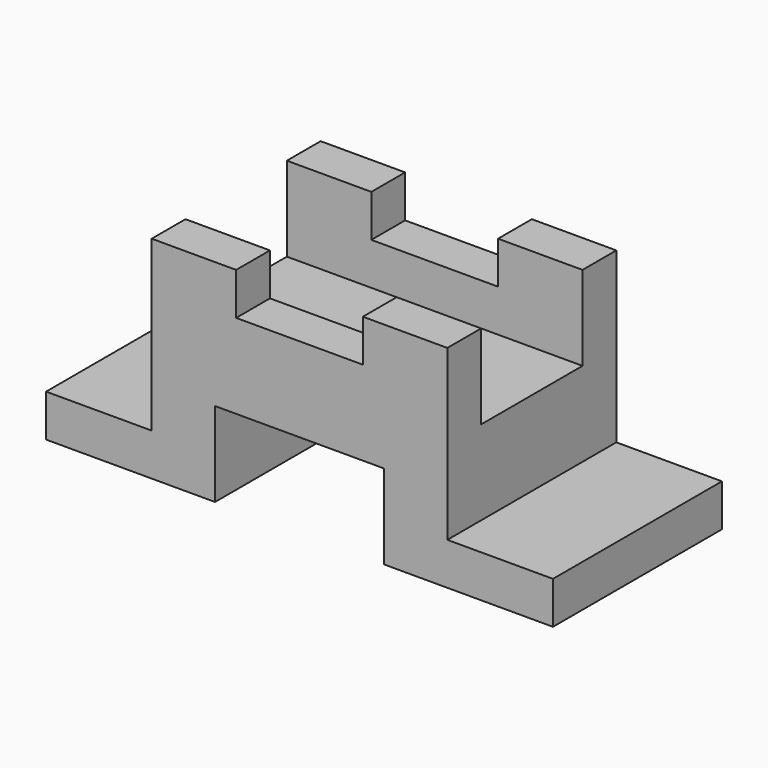
from build123d import *

# Parameters (mm, degrees)
F1_DEPTH = 25
F2_W     = 30
F2_H     = 20
F3_DEPTH = 35.001


with BuildPart() as f1:
    # F0 (on Front) → F1 (new body, symmetric)
    with BuildSketch(Plane.XZ):
        Polygon((0, 40), (0, 20), (20, 20), (20, 0), (60, 0), (60, 10), (35, 10), (35, 50), (15, 50), (15, 40), align=None)
    extrude(amount=F1_DEPTH, both=True)

    # F2 (on face) → F3 (cut, through all)
    with BuildSketch(Plane.YZ.offset(35)):
        with Locations((0, 40)):
            Rectangle(F2_W, F2_H)
    extrude(amount=-F3_DEPTH, mode=Mode.SUBTRACT)

    # F4: F1 across plane


with BuildPart() as f1_1:
    add(f1.part)
    add(f1.part.mirror(Plane.YZ))


solid = f1_1.part
